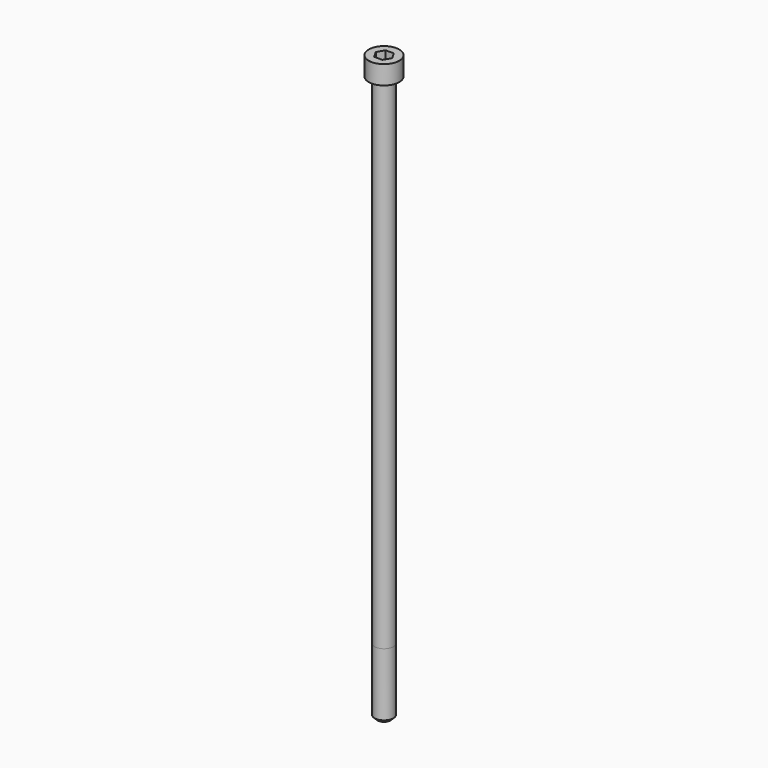
from build123d import *

# Parameters (mm, degrees)
POCKET_DEPTH = 6.06


with BuildPart() as part:
    # Sketch → Revolve (revolve)
    with BuildSketch(Plane.YZ):
        with BuildLine():
            Line((3.999, 0), (6.5, 0))
            Line((6.5, 0), (6.5, 7.97229))
            ThreePointArc((6.5, 7.97229), (6.491884, 7.991884), (6.47229, 8))
            Line((6.47229, 8), (0, 8))
            Line((0, -240), (0, 8))
            Line((2.75, -240), (0, -240))
            Line((4, -238.75), (2.75, -240))
            Line((4, -212), (4, -238.75))
            Line((3.999, 0), (4, -212))
        make_face()
    revolve(axis=Axis((0, 0, 0), (0, 0, 1)))

    # Sketch001 → Pocket (cut)
    with BuildSketch(Plane.XY.offset(8)):
        Polygon((3.498743, 0), (1.749371, 3.03), (-1.749371, 3.03), (-3.498743, 0), (-1.749371, -3.03), (1.749371, -3.03), align=None)
    extrude(amount=-POCKET_DEPTH, mode=Mode.SUBTRACT)


solid = part.part
